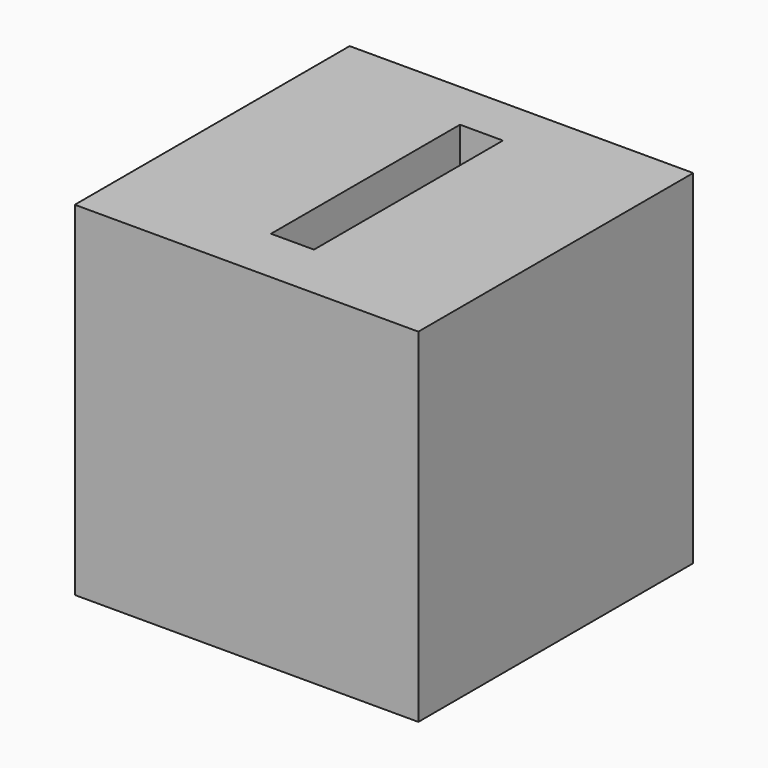
from build123d import *

# Parameters (mm, degrees)
F0_W     = 101.6
F0_H     = 101.6
F1_DEPTH = 50.8
F2_W     = 12.7
F2_H     = 69.85
F3_DEPTH = 50.8
F4_R     = 31.75
F5_DEPTH = 50.8


with BuildPart() as f1:
    # F0 (on Top) → F1 (new body, symmetric)
    with BuildSketch(Plane.XY):
        Rectangle(F0_W, F0_H)
    extrude(amount=F1_DEPTH, both=True)

    # F2 (on face) → F3 (cut)
    with BuildSketch(Plane.XY.offset(50.8)):
        with Locations((0, 1.10153)):
            Rectangle(F2_W, F2_H)
    extrude(amount=-F3_DEPTH, mode=Mode.SUBTRACT)

    # F4 (on face) → F5 (cut)
    with BuildSketch(Plane(origin=(-50.8, 0, 0), x_dir=(0, -1, 0), z_dir=(-1, 0, 0))):
        Circle(F4_R)
    extrude(amount=-F5_DEPTH, mode=Mode.SUBTRACT)


solid = f1.part
